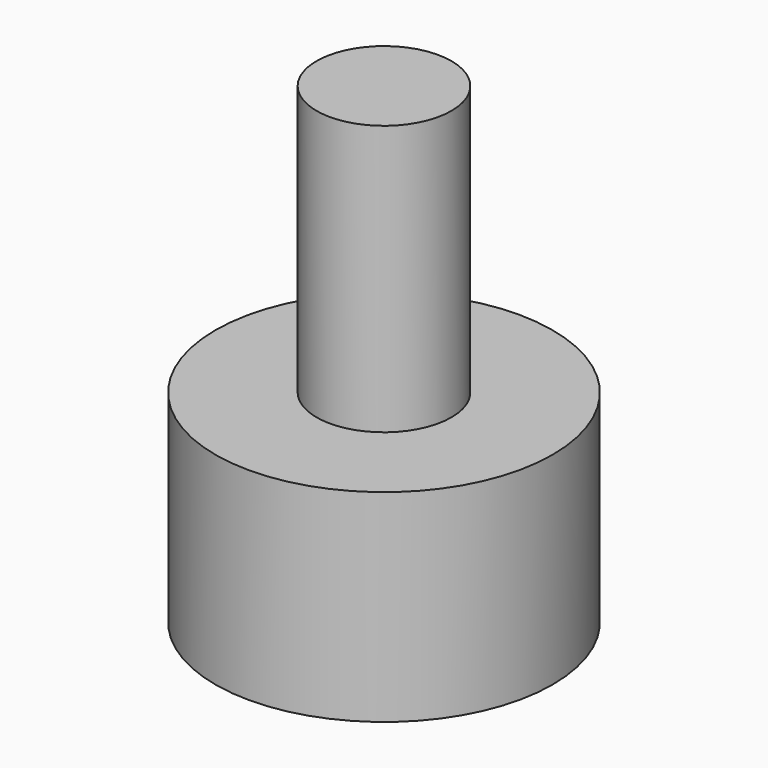
from build123d import *

# Parameters (mm, degrees)
F0_R     = 25
F1_DEPTH = 15
F2_R     = 10
F3_DEPTH = 40


with BuildPart() as f1:
    # F0 (on Top) → F1 (new body, symmetric)
    with BuildSketch(Plane.XY):
        Circle(F0_R)
    extrude(amount=F1_DEPTH, both=True)

    # F2 (on face) → F3 (join)
    with BuildSketch(Plane.XY.offset(15)):
        Circle(F2_R)
    extrude(amount=F3_DEPTH)


solid = f1.part
